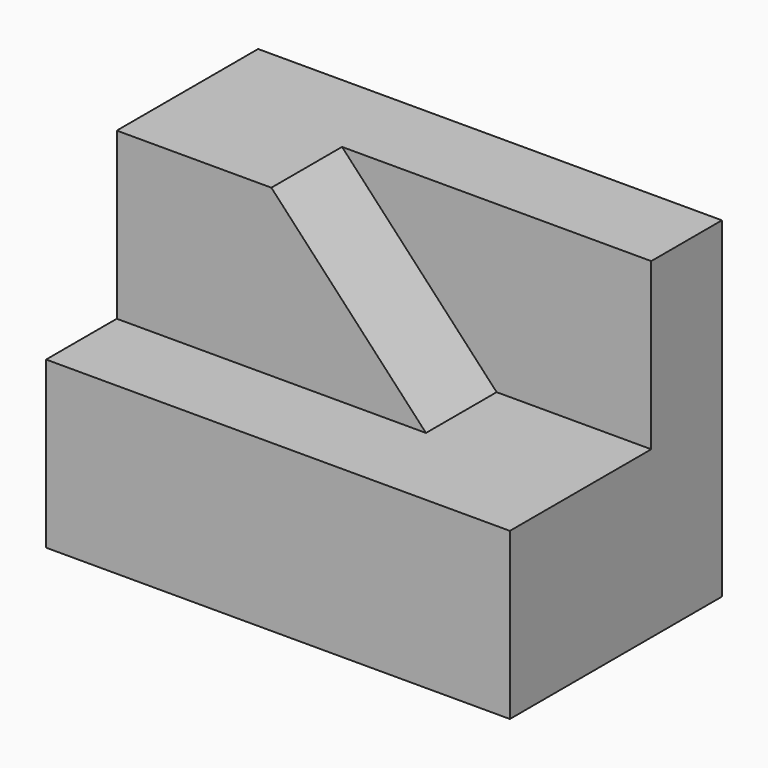
from build123d import *

# Parameters (mm, degrees)
F1_DEPTH = 24
F2_DEPTH = 8
F3_DEPTH = 16


with BuildPart() as f1:
    # F0 (on Front) → F1 (new body)
    with BuildSketch(Plane.XZ):
        Polygon((0, 15), (0, 0), (42, 0), (42, 15), (28, 15), align=None)
        Polygon((0, 30), (0, 15), (28, 15), (14, 30), align=None)
        Polygon((28, 15), (42, 15), (42, 30), (14, 30), align=None)
    extrude(amount=-F1_DEPTH)

    # F0 (on Front) → F2 (cut)
    with BuildSketch(Plane.XZ):
        Polygon((0, 30), (0, 15), (28, 15), (14, 30), align=None)
        Polygon((28, 15), (42, 15), (42, 30), (14, 30), align=None)
    extrude(amount=-F2_DEPTH, mode=Mode.SUBTRACT)

    # F0 (on Front) → F3 (cut)
    with BuildSketch(Plane.XZ):
        Polygon((28, 15), (42, 15), (42, 30), (14, 30), align=None)
    extrude(amount=-F3_DEPTH, mode=Mode.SUBTRACT)


solid = f1.part
